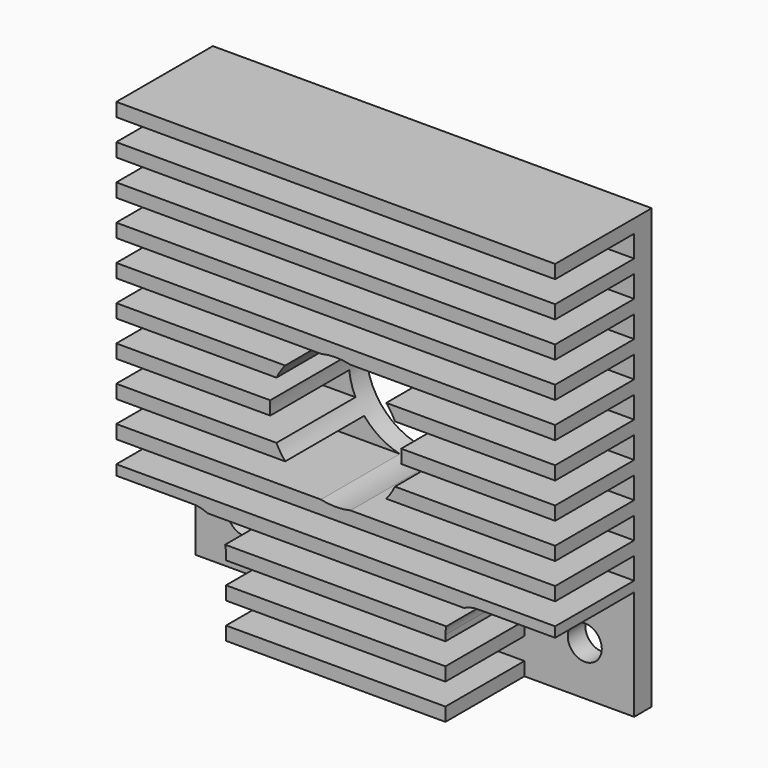
from build123d import *

# Parameters (mm, degrees)
F1_DEPTH = 20
F2_R     = 6
F2_R_2   = 1.55
F3_DEPTH = 25
F5_DEPTH = 25


with BuildPart() as f1:
    # F0 (on Right) → F1 (new body, symmetric)
    with BuildSketch(Plane.YZ):
        Polygon((5.5, -20), (5.5, 20), (-5.5, 20), (-5.5, 18.769231), (3.5, 18.769231), (3.5, 16.769231), (-5.5, 16.769231), (-5.5, 15.538462), (3.5, 15.538462), (3.5, 13.538462), (-5.5, 13.538462), (-5.5, 12.307692), (3.5, 12.307692), (3.5, 10.307692), (-5.5, 10.307692), (-5.5, 9.076923), (3.5, 9.076923), (3.5, 7.076923), (-5.5, 7.076923), (-5.5, 5.846154), (3.5, 5.846154), (3.5, 3.846154), (-5.5, 3.846154), (-5.5, 2.615385), (3.5, 2.615385), (3.5, 0.615385), (-5.5, 0.615385), (-5.5, -0.615385), (3.5, -0.615385), (3.5, -2.615385), (-5.5, -2.615385), (-5.5, -3.846154), (3.5, -3.846154), (3.5, -5.846154), (-5.5, -5.846154), (-5.5, -7.076923), (3.5, -7.076923), (3.5, -9.076923), (-5.5, -9.076923), (-5.5, -10.307692), (3.5, -10.307692), (3.5, -12.307692), (-5.5, -12.307692), (-5.5, -13.538462), (3.5, -13.538462), (3.5, -15.538462), (-5.5, -15.538462), (-5.5, -16.769231), (3.5, -16.769231), (3.5, -18.769231), (-5.5, -18.769231), (-5.5, -20), align=None)
    extrude(amount=F1_DEPTH, both=True)

    # F2 (on face) → F3 (cut)
    with BuildSketch(Plane.XZ.offset(5.5)):
        Circle(F2_R)
        with Locations((-15.5, -15.5)):
            Circle(F2_R_2)
        with Locations((15.5, -15.5)):
            Circle(F2_R_2)
    extrude(amount=-F3_DEPTH, mode=Mode.SUBTRACT)

    # F4 (on face) → F5 (cut)
    with BuildSketch(Plane.XZ.offset(-3.5)):
        with BuildLine():
            Line((-20, -10), (-20, -20))
            Line((-20, -20), (-10, -20))
            Line((-10, -20), (-10, -13))
            ThreePointArc((-10, -13), (-10.87868, -10.87868), (-13, -10))
            Line((-13, -10), (-20, -10))
        make_face()
        with BuildLine():
            Line((10, -13), (10, -20))
            Line((10, -20), (20, -20))
            Line((20, -20), (20, -10))
            Line((20, -10), (13, -10))
            ThreePointArc((13, -10), (10.87868, -10.87868), (10, -13))
        make_face()
    extrude(amount=F5_DEPTH, mode=Mode.SUBTRACT)


solid = f1.part
